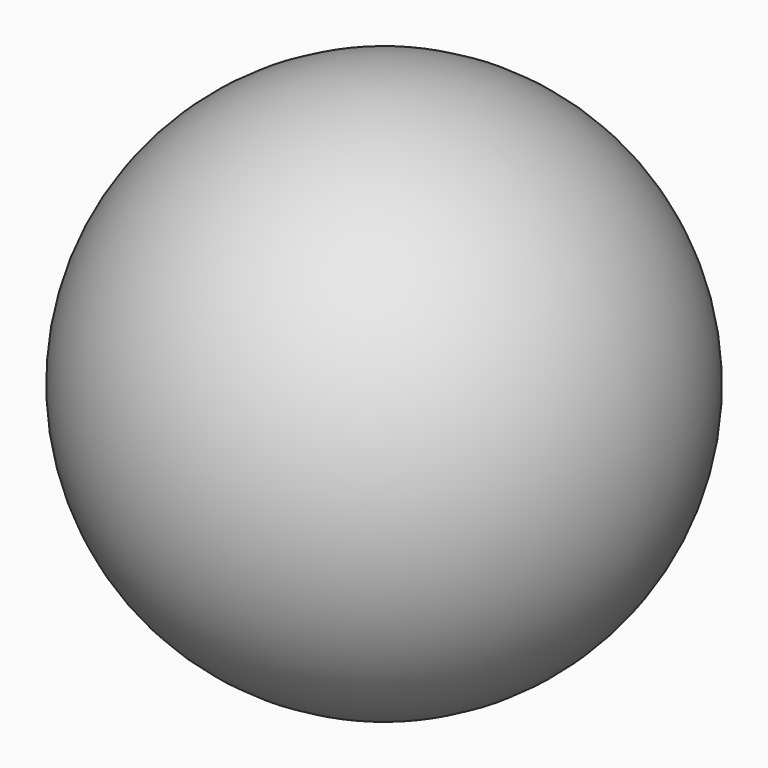
from build123d import *

# Parameters (mm, degrees)
F3_R     = 2
F4_DEPTH = 4


with BuildPart() as f1:
    # F0 (on Front) → F1 (revolve)
    with BuildSketch(Plane.XZ):
        with BuildLine():
            ThreePointArc((0, -7), (7, 0), (0, 7))
            Line((0, 7), (0, -7))
        make_face()
    revolve(axis=Axis((0, 0, 0), (0, 0, -1)))

    # F3 (on offset) → F4 (cut)
    with BuildSketch(Plane.XY.offset(-7)):
        Circle(F3_R)
    extrude(amount=F4_DEPTH, mode=Mode.SUBTRACT)


solid = f1.part
